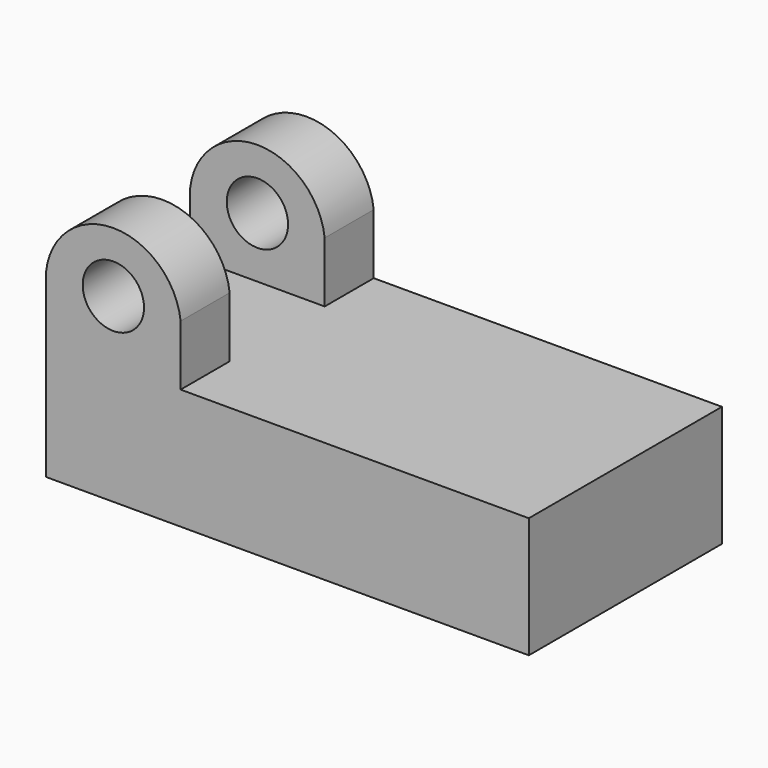
from build123d import *

# Parameters (mm, degrees)
F0_W     = 20
F0_H     = 10
F1_DEPTH = 5
F2_W     = 5.574685
F2_H     = 2.54
F3_DEPTH = 5
F5_DEPTH = 10.001
F6_R     = 1.27
F7_DEPTH = 10.001


with BuildPart() as f1:
    # F0 (on Top) → F1 (new body)
    with BuildSketch(Plane.XY):
        with Locations((1.353551, -6.869877)):
            Rectangle(F0_W, F0_H)
    extrude(amount=F1_DEPTH)

    # F2 (on face) → F3 (join)
    with BuildSketch(Plane.XY.offset(5)):
        with Locations((-5.859107, -3.139877)):
            Rectangle(F2_W, F2_H)
        with Locations((-5.859107, -10.599877)):
            Rectangle(F2_W, F2_H)
    extrude(amount=F3_DEPTH)

    # F4 (on face) → F5 (cut, through all)
    with BuildSketch(Plane.XZ.offset(11.869877)):
        Polygon((-3.071764, 10), (-3.071764, 7.5), (-2.419111, 7.5), (-2.419111, 10.895025), (-9.260142, 10.895025), (-9.729625, 7.921636), (-8.646449, 7.5), (-8.646449, 10), align=None)
        with BuildLine():
            ThreePointArc((-8.646449, 7.5), (-5.859107, 9.988526), (-3.071764, 7.5))
            Line((-3.071764, 7.5), (-3.071764, 10))
            Line((-3.071764, 10), (-8.646449, 10))
            Line((-8.646449, 10), (-8.646449, 7.5))
        make_face()
    extrude(amount=-F5_DEPTH, mode=Mode.SUBTRACT)

    # F6 (on face) → F7 (cut, through all)
    with BuildSketch(Plane.XZ.offset(11.869877)):
        with Locations((-5.859107, 7.5)):
            Circle(F6_R)
    extrude(amount=-F7_DEPTH, mode=Mode.SUBTRACT)


solid = f1.part
